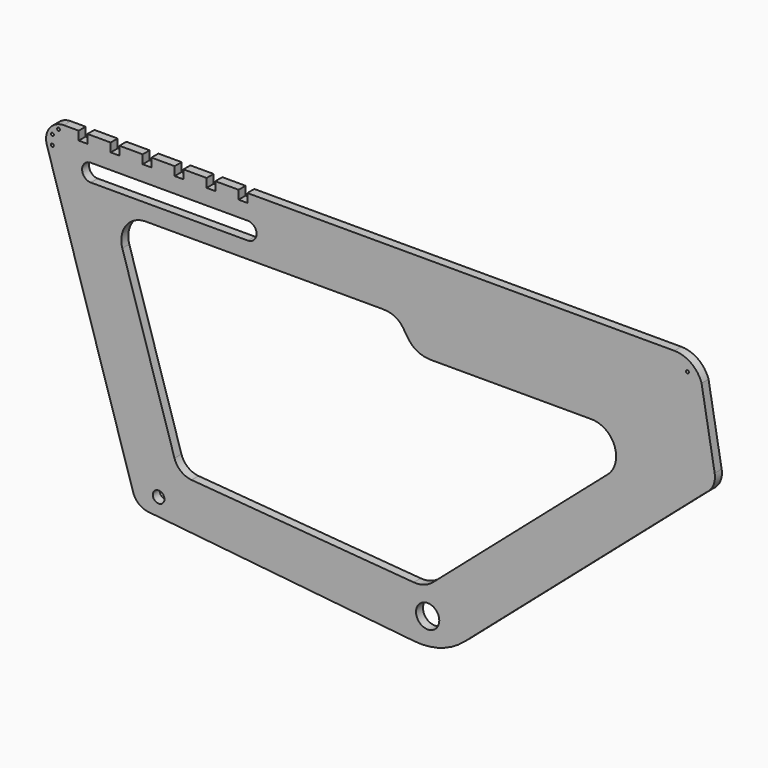
from build123d import *

# Parameters (mm, degrees)
F0_R     = 10
F0_R_2   = 20
F0_R_3   = 2.5
F1_DEPTH = 7.5


with BuildPart() as f1:
    # F0 (on Front) → F1 (new body, symmetric)
    with BuildSketch(Plane.XZ):
        with BuildLine():
            ThreePointArc((-276.017555, -20.660086), (-266.304674, -35.067994), (-250.261343, -41.741776))
            Line((-250.261343, -41.741776), (207.324587, -88.806799))
            ThreePointArc((207.324587, -88.806799), (253.185254, -84.115685), (293.400793, -61.578656))
            Line((293.400793, -61.578656), (709.601084, 299.95794))
            ThreePointArc((709.601084, 299.95794), (721.746277, 314.620589), (723.932064, 333.534112))
            Line((723.932064, 333.534112), (701.375468, 462.389844))
            ThreePointArc((701.375468, 462.389844), (683.514294, 486.942452), (654.636412, 496.31902))
            Line((654.636412, 496.31902), (-79.706343, 496.31902))
            Line((-79.706343, 496.31902), (-79.706343, 481.31902))
            Line((-79.706343, 481.31902), (-94.706343, 481.31902))
            Line((-94.706343, 481.31902), (-94.706343, 496.31902))
            Line((-94.706343, 496.31902), (-134.706343, 496.31902))
            Line((-134.706343, 496.31902), (-134.706343, 481.31902))
            Line((-134.706343, 481.31902), (-149.706343, 481.31902))
            Line((-149.706343, 481.31902), (-149.706343, 496.31902))
            Line((-149.706343, 496.31902), (-189.706343, 496.31902))
            Line((-189.706343, 496.31902), (-189.706343, 481.31902))
            Line((-189.706343, 481.31902), (-204.706343, 481.31902))
            Line((-204.706343, 481.31902), (-204.706343, 496.31902))
            Line((-204.706343, 496.31902), (-244.706343, 496.31902))
            Line((-244.706343, 496.31902), (-244.706343, 481.31902))
            Line((-244.706343, 481.31902), (-259.706343, 481.31902))
            Line((-259.706343, 481.31902), (-259.706343, 496.31902))
            Line((-259.706343, 496.31902), (-299.706343, 496.31902))
            Line((-299.706343, 496.31902), (-299.706343, 481.31902))
            Line((-299.706343, 481.31902), (-314.706343, 481.31902))
            Line((-314.706343, 481.31902), (-314.706343, 496.31902))
            Line((-314.706343, 496.31902), (-354.706343, 496.31902))
            Line((-354.706343, 496.31902), (-354.706343, 481.31902))
            Line((-354.706343, 481.31902), (-369.706343, 481.31902))
            Line((-369.706343, 481.31902), (-369.706343, 496.31902))
            Line((-369.706343, 496.31902), (-395.363588, 496.31902))
            ThreePointArc((-395.363588, 496.31902), (-419.90474, 483.912815), (-424.465387, 456.794876))
            Line((-424.465387, 456.794876), (-276.017555, -20.660086))
        make_face()
        with Locations((-232.248772, -13.546013)):
            Circle(F0_R, mode=Mode.SUBTRACT)
        with BuildLine():
            Line((-205.025903, 54.145206), (-294.760891, 342.761177))
            ThreePointArc((-294.760891, 342.761177), (-288.05875, 379.583252), (-254.581922, 396.31902))
            Line((-254.581922, 396.31902), (152.180821, 396.31902))
            add(Edge.make_bspline(
                [(152.180821, 396.31902), (202.900278, 395.792604), (182.017022, 350.09414), (234.05233, 346.31902)],
                knots=[0, 0, 0, 0, 95.931976, 95.931976, 95.931976, 95.931976], degree=3))
            Line((234.05233, 346.31902), (511.96432, 346.31902))
            ThreePointArc((511.96432, 346.31902), (551.787832, 318.687201), (539.843978, 271.71089))
            Line((539.843978, 271.71089), (239.642025, 10.937424))
            ThreePointArc((239.642025, 10.937424), (224.102433, 2.114935), (206.358638, 0))
            Line((206.358638, 0), (-175.751697, 30.723296))
            ThreePointArc((-175.751697, 30.723296), (-193.976565, 37.950032), (-205.025903, 54.145206))
        make_face(mode=Mode.SUBTRACT)
        with Locations((230.366445, -43.535308)):
            Circle(F0_R_2, mode=Mode.SUBTRACT)
        with Locations((-415.037585, 459.662208)):
            Circle(F0_R_3, mode=Mode.SUBTRACT)
        with Locations((-414.954704, 476.152515)):
            Circle(F0_R_3, mode=Mode.SUBTRACT)
        with Locations((-404.460467, 487.250969)):
            Circle(F0_R_3, mode=Mode.SUBTRACT)
        with BuildLine():
            ThreePointArc((-348.862556, 424.598233), (-363.862556, 439.598233), (-348.862556, 454.598233))
            Line((-348.862556, 454.598233), (-78.862556, 454.598233))
            ThreePointArc((-78.862556, 454.598233), (-63.862556, 439.598233), (-78.862556, 424.598233))
            Line((-78.862556, 424.598233), (-348.862556, 424.598233))
        make_face(mode=Mode.SUBTRACT)
        with Locations((677.034383, 471.78393)):
            Circle(F0_R_3, mode=Mode.SUBTRACT)
    extrude(amount=F1_DEPTH, both=True)


solid = f1.part
